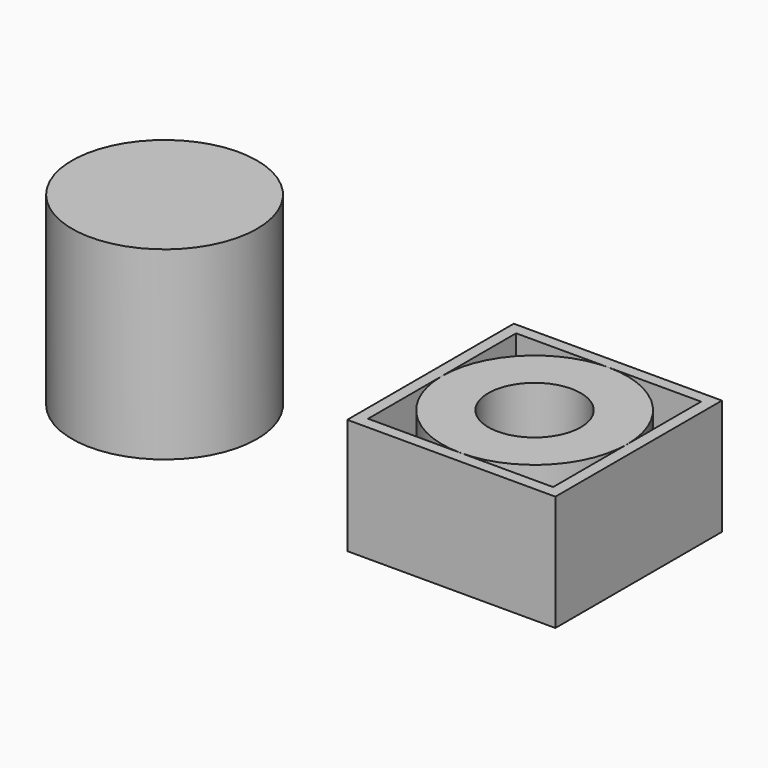
from build123d import *

# Parameters (mm, degrees)
F0_R     = 20
F1_DEPTH = 40
F0_W     = 45
F0_H     = 45
F0_R_2   = 10
F2_DEPTH = 25


with BuildPart() as f1:
    # F0 (on Top) → F1 (new body)
    with BuildSketch(Plane.XY):
        Circle(F0_R)
    extrude(amount=F1_DEPTH)


with BuildPart() as f2:
    # F0 (on Top) → F2 (new body)
    with BuildSketch(Plane.XY):
        with Locations((80, 0)):
            Rectangle(F0_W, F0_H)
        Polygon((100, 20), (100, 0), (100, -20), (80, -20), (60, -20), (60, 0), (60, 20), (80, 20), align=None, mode=Mode.SUBTRACT)
        with BuildLine():
            ThreePointArc((80, -20), (94.142136, -14.142136), (100, 0))
            ThreePointArc((100, 0), (94.142136, 14.142136), (80, 20))
            ThreePointArc((80, 20), (65.857864, 14.142136), (60, 0))
            ThreePointArc((60, 0), (65.857864, -14.142136), (80, -20))
        make_face()
        with Locations((80, 0)):
            Circle(F0_R_2, mode=Mode.SUBTRACT)
    extrude(amount=F2_DEPTH)


solid = Compound([f1.part, f2.part])
